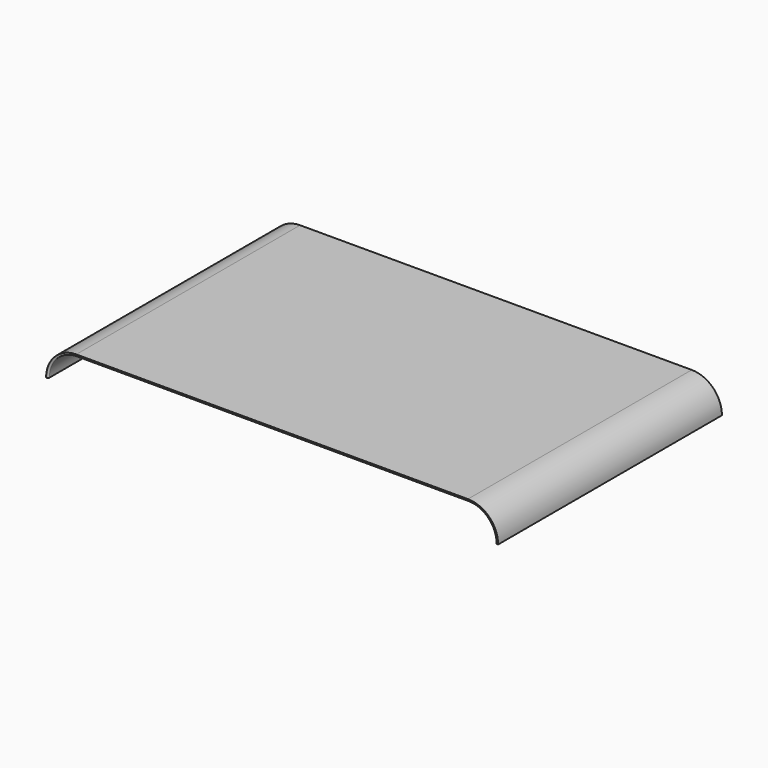
from build123d import *

# Parameters (mm, degrees)
F1_DEPTH = 254
F2_R     = 1.27


with BuildPart() as f1:
    # F0 (on Front) → F1 (new body)
    with BuildSketch(Plane.XZ):
        with BuildLine():
            ThreePointArc((-25.4, -25.4), (-17.960512, -7.439488), (0, 0))
            Line((0, 0), (355.6, 0))
            ThreePointArc((355.6, 0), (373.560512, -7.439488), (381, -25.4))
            Line((381, -25.4), (383, -25.4))
            ThreePointArc((383, -25.4), (374.974726, -6.025274), (355.6, 2))
            Line((355.6, 2), (0, 2))
            ThreePointArc((0, 2), (-19.374726, -6.025274), (-27.4, -25.4))
            Line((-27.4, -25.4), (-25.4, -25.4))
        make_face()
    extrude(amount=F1_DEPTH)

    # F2
    f2_edges = [f1.edges().sort_by_distance(p)[0] for p in [
        (177.8, -254, 0),
        (177.8, 0, 0),
    ]]
    fillet(f2_edges, radius=F2_R)


solid = f1.part
